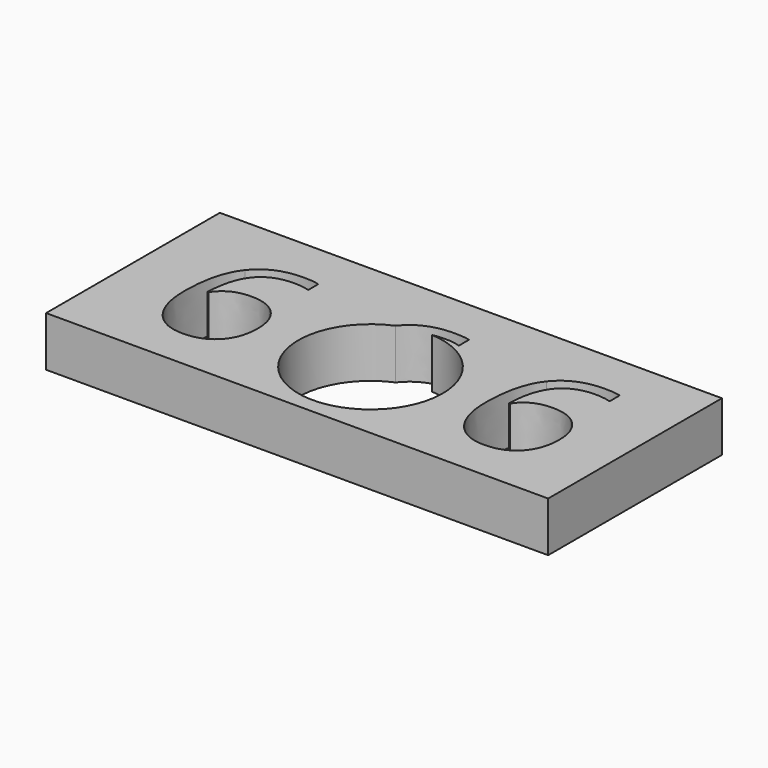
from build123d import *

# Parameters (mm, degrees)
F1_DEPTH = 7.62


with BuildPart() as f1:
    # F0 (on Top) → F1 (new body)
    with BuildSketch(Plane.XY):
        Polygon((24.3624635041, 16.762631014), (-27.4156052619, 16.762631014), (-27.4156052619, -16.3893923163), (24.3624635041, -16.3893923163), (49.2180623114, -16.3893923163), (49.2180623114, 16.762631014), align=None)
        with BuildLine():
            add(Edge.make_bspline(
                [(-16.3065885405, -8.032339235), (-18.1022772025, -5.7288445134), (-18.1022772025, -1.6231784994)],
                knots=[0, 0, 0, 1, 1, 1], degree=2))
            add(Edge.make_bspline(
                [(-18.1022772025, -1.6231784994), (-18.1022772025, 4.1982237332), (-15.839839141, 7.0808334504)],
                knots=[0, 0, 0, 1, 1, 1], degree=2))
            add(Edge.make_bspline(
                [(-15.839839141, 7.0808334504), (-13.5774010796, 9.9634431677), (-9.1476035381, 9.9634431677)],
                knots=[0, 0, 0, 1, 1, 1], degree=2))
            add(Edge.make_bspline(
                [(-9.1476035381, 9.9634431677), (-7.6220244824, 9.9634431677), (-6.7447084815, 9.7084596994)],
                knots=[0, 0, 0, 1, 1, 1], degree=2))
            Line((-6.7447084815, 9.7084596994), (-6.7447084815, 7.776635796))
            add(Edge.make_bspline(
                [(-6.7447084815, 7.776635796), (-7.7862511229, 8.1137325845), (-9.1216730159, 8.1137325845)],
                knots=[0, 0, 0, 1, 1, 1], degree=2))
            add(Edge.make_bspline(
                [(-9.1216730159, 8.1137325845), (-12.2981619847, 8.1137325845), (-13.9728415431, 6.1365302672)],
                knots=[0, 0, 0, 1, 1, 1], degree=2))
            add(Edge.make_bspline(
                [(-13.9728415431, 6.1365302672), (-15.6475211014, 4.1593279499), (-15.8074259883, -0.0846341825)],
                knots=[0, 0, 0, 1, 1, 1], degree=2))
            Line((-15.8074259883, -0.0846341825), (-15.6475211014, -0.0846341825))
            add(Edge.make_bspline(
                [(-15.6475211014, -0.0846341825), (-14.160837829, 2.2404693076), (-10.9454530769, 2.2404693076)],
                knots=[0, 0, 0, 1, 1, 1], degree=2))
            add(Edge.make_bspline(
                [(-10.9454530769, 2.2404693076), (-8.2832527983, 2.2404693076), (-6.751191112, 0.6327769315)],
                knots=[0, 0, 0, 1, 1, 1], degree=2))
            add(Edge.make_bspline(
                [(-6.751191112, 0.6327769315), (-5.2191294257, -0.9749154445), (-5.2191294257, -3.7278725508)],
                knots=[0, 0, 0, 1, 1, 1], degree=2))
            add(Edge.make_bspline(
                [(-5.2191294257, -3.7278725508), (-5.2191294257, -6.8092829382), (-6.9002916146, -8.5725584474)],
                knots=[0, 0, 0, 1, 1, 1], degree=2))
            add(Edge.make_bspline(
                [(-6.9002916146, -8.5725584474), (-8.5814538035, -10.3358339566), (-11.446776506, -10.3358339566)],
                knots=[0, 0, 0, 1, 1, 1], degree=2))
            add(Edge.make_bspline(
                [(-11.446776506, -10.3358339566), (-14.5108998786, -10.3358339566), (-16.3065885405, -8.032339235)],
                knots=[0, 0, 0, 1, 1, 1], degree=2))
        make_face(mode=Mode.SUBTRACT)
        with BuildLine():
            ThreePointArc((12.0489439223, 7.9226688045), (19.4419206914, 4.4978595381), (22.4564528377, -3.0716860201))
            ThreePointArc((22.4564528377, -3.0716860201), (5.3655002192, -12.2517121076), (7.1492792248, 7.0664573924))
            add(Edge.make_bspline(
                [(7.1492792248, 7.0664573924), (7.1548996189, 7.0736545349), (7.1605340451, 7.0808334504)],
                knots=[0.9975095777, 0.9975095777, 0.9975095777, 1, 1, 1], degree=2))
            add(Edge.make_bspline(
                [(7.1605340451, 7.0808334504), (9.4229721065, 9.9634431677), (13.852769648, 9.9634431677)],
                knots=[0, 0, 0, 1, 1, 1], degree=2))
            add(Edge.make_bspline(
                [(13.852769648, 9.9634431677), (15.3783487038, 9.9634431677), (16.2556647047, 9.7084596994)],
                knots=[0, 0, 0, 1, 1, 1], degree=2))
            Line((16.2556647047, 9.7084596994), (16.2556647047, 7.776635796))
            add(Edge.make_bspline(
                [(16.2556647047, 7.776635796), (15.2141220632, 8.1137325845), (13.8787001702, 8.1137325845)],
                knots=[0, 0, 0, 1, 1, 1], degree=2))
            add(Edge.make_bspline(
                [(13.8787001702, 8.1137325845), (12.8912595724, 8.1137325845), (12.0489439223, 7.9226688045)],
                knots=[0, 0, 0, 0.3108591302, 0.3108591302, 0.3108591302], degree=2))
        make_face(mode=Mode.SUBTRACT)
        with BuildLine():
            add(Edge.make_bspline(
                [(29.6941578317, -8.032339235), (27.8984691698, -5.7288445134), (27.8984691698, -1.6231784994)],
                knots=[0, 0, 0, 1, 1, 1], degree=2))
            add(Edge.make_bspline(
                [(27.8984691698, -1.6231784994), (27.8984691698, 4.1982237332), (30.1609072312, 7.0808334504)],
                knots=[0, 0, 0, 1, 1, 1], degree=2))
            add(Edge.make_bspline(
                [(30.1609072312, 7.0808334504), (32.4233452927, 9.9634431677), (36.8531428341, 9.9634431677)],
                knots=[0, 0, 0, 1, 1, 1], degree=2))
            add(Edge.make_bspline(
                [(36.8531428341, 9.9634431677), (38.3787218899, 9.9634431677), (39.2560378908, 9.7084596994)],
                knots=[0, 0, 0, 1, 1, 1], degree=2))
            Line((39.2560378908, 9.7084596994), (39.2560378908, 7.776635796))
            add(Edge.make_bspline(
                [(39.2560378908, 7.776635796), (38.2144952493, 8.1137325845), (36.8790733563, 8.1137325845)],
                knots=[0, 0, 0, 1, 1, 1], degree=2))
            add(Edge.make_bspline(
                [(36.8790733563, 8.1137325845), (33.7025843876, 8.1137325845), (32.0279048292, 6.1365302672)],
                knots=[0, 0, 0, 1, 1, 1], degree=2))
            add(Edge.make_bspline(
                [(32.0279048292, 6.1365302672), (30.3532252708, 4.1593279499), (30.193320384, -0.0846341825)],
                knots=[0, 0, 0, 1, 1, 1], degree=2))
            Line((30.193320384, -0.0846341825), (30.3532252708, -0.0846341825))
            add(Edge.make_bspline(
                [(30.3532252708, -0.0846341825), (31.8399085433, 2.2404693076), (35.0552932953, 2.2404693076)],
                knots=[0, 0, 0, 1, 1, 1], degree=2))
            add(Edge.make_bspline(
                [(35.0552932953, 2.2404693076), (37.7174935739, 2.2404693076), (39.2495552602, 0.6327769315)],
                knots=[0, 0, 0, 1, 1, 1], degree=2))
            add(Edge.make_bspline(
                [(39.2495552602, 0.6327769315), (40.7816169465, -0.9749154445), (40.7816169465, -3.7278725508)],
                knots=[0, 0, 0, 1, 1, 1], degree=2))
            add(Edge.make_bspline(
                [(40.7816169465, -3.7278725508), (40.7816169465, -6.8092829382), (39.1004547576, -8.5725584474)],
                knots=[0, 0, 0, 1, 1, 1], degree=2))
            add(Edge.make_bspline(
                [(39.1004547576, -8.5725584474), (37.4192925687, -10.3358339566), (34.5539698663, -10.3358339566)],
                knots=[0, 0, 0, 1, 1, 1], degree=2))
            add(Edge.make_bspline(
                [(34.5539698663, -10.3358339566), (31.4898464937, -10.3358339566), (29.6941578317, -8.032339235)],
                knots=[0, 0, 0, 1, 1, 1], degree=2))
        make_face(mode=Mode.SUBTRACT)
    extrude(amount=F1_DEPTH)


solid = f1.part
